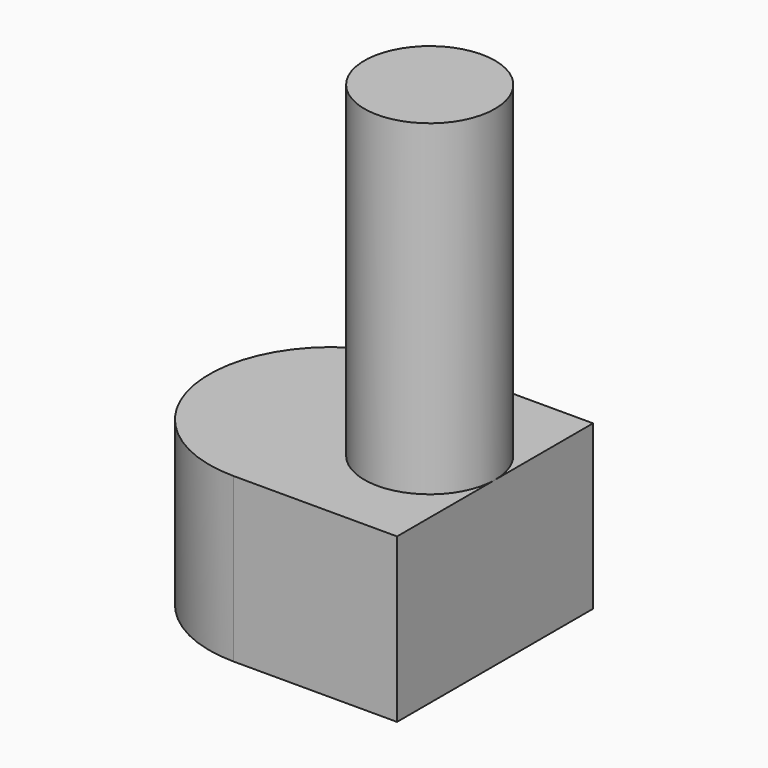
from build123d import *

# Parameters (mm, degrees)
F2_DEPTH = 6.35
F1_R     = 2.54
F3_DEPTH = 19.05


with BuildPart() as f2:
    # F0 (on Top) → F2 (new body)
    with BuildSketch(Plane.XY):
        with BuildLine():
            Line((6.35, 4.7625), (0, 4.7625))
            ThreePointArc((0, 4.7625), (-4.7625, 0), (0, -4.7625))
            Line((0, -4.7625), (6.35, -4.7625))
            Line((6.35, -4.7625), (6.35, 4.7625))
        make_face()
    extrude(amount=F2_DEPTH)

    # F1 (on Top) → F3 (join)
    with BuildSketch(Plane.XY):
        with Locations((3.81, 0)):
            Circle(F1_R)
    extrude(amount=F3_DEPTH)


solid = f2.part
